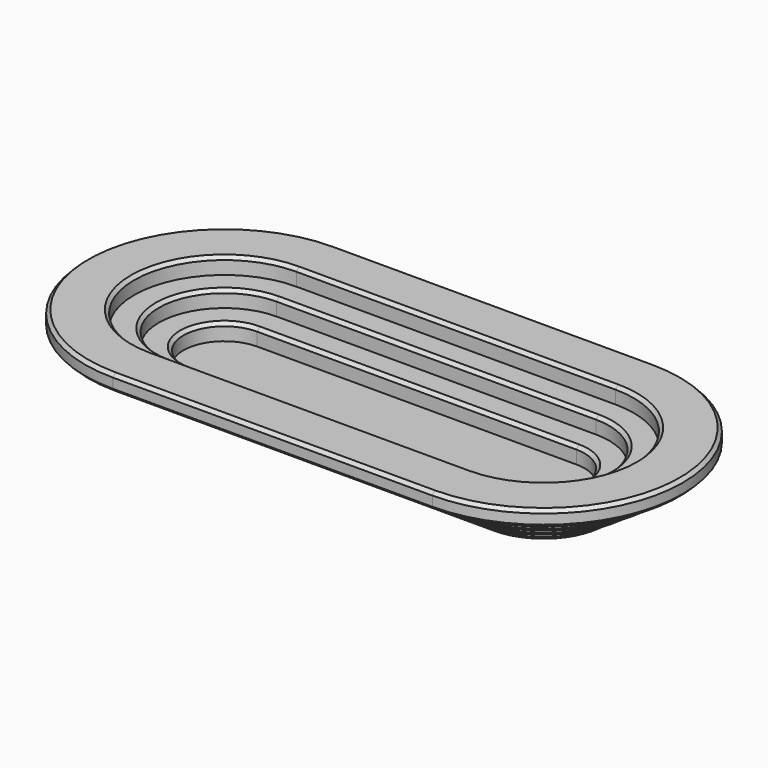
from build123d import *

# Parameters (mm, degrees)
F1_DEPTH  = 10
F3_DEPTH  = 10
F5_DEPTH  = 10
F7_DEPTH  = 10
F8_SIZE   = 2
F8_2_SIZE = 2
F8_3_SIZE = 2
F8_4_SIZE = 2


with BuildPart() as f1:
    # F0 (on Top) → F1 (new body)
    with BuildSketch(Plane.XY):
        with BuildLine():
            Line((97.5, 40), (-97.5, 40))
            ThreePointArc((-97.5, 40), (-137.5, 0), (-97.5, -40))
            Line((-97.5, -40), (97.5, -40))
            ThreePointArc((97.5, -40), (137.5, 0), (97.5, 40))
        make_face()
    extrude(amount=F1_DEPTH)

    # F8#4
    f8_4_edges = [f1.edges().sort_by_distance(p)[0] for p in [
        (0, 40, 0),
    ]]
    chamfer(f8_4_edges, length=F8_4_SIZE)


with BuildPart() as f3:
    # F2 (on face) → F3 (new body)
    with BuildSketch(Plane.XY.offset(10)):
        with BuildLine():
            ThreePointArc((-97.5, 55), (-152.5, 0), (-97.5, -55))
            Line((-97.5, -55), (97.5, -55))
            ThreePointArc((97.5, -55), (152.5, 0), (97.5, 55))
            Line((97.5, 55), (-97.5, 55))
        make_face()
        with BuildLine():
            ThreePointArc((-97.5, -40), (-137.5, 0), (-97.5, 40))
            Line((-97.5, 40), (97.5, 40))
            ThreePointArc((97.5, 40), (137.5, 0), (97.5, -40))
            Line((97.5, -40), (-97.5, -40))
        make_face(mode=Mode.SUBTRACT)
        with BuildLine():
            Line((97.5, 40), (-97.5, 40))
            ThreePointArc((-97.5, 40), (-137.5, 0), (-97.5, -40))
            Line((-97.5, -40), (97.5, -40))
            ThreePointArc((97.5, -40), (137.5, 0), (97.5, 40))
        make_face()
        with BuildLine():
            Line((97.5, -25), (-97.5, -25))
            ThreePointArc((-97.5, -25), (-122.5, 0), (-97.5, 25))
            Line((-97.5, 25), (97.5, 25))
            ThreePointArc((97.5, 25), (122.5, 0), (97.5, -25))
        make_face(mode=Mode.SUBTRACT)
    extrude(amount=F3_DEPTH)

    # F8
    f8_edges = [f3.edges().sort_by_distance(p)[0] for p in [
        (0, -25, 20),
        (0, 55, 10),
    ]]
    chamfer(f8_edges, length=F8_SIZE)


with BuildPart() as f5:
    # F4 (on face) → F5 (new body)
    with BuildSketch(Plane.XY.offset(20)):
        with BuildLine():
            Line((97.5, 70), (-97.5, 70))
            ThreePointArc((-97.5, 70), (-167.5, 0), (-97.5, -70))
            Line((-97.5, -70), (97.5, -70))
            ThreePointArc((97.5, -70), (167.5, 0), (97.5, 70))
        make_face()
        with BuildLine():
            ThreePointArc((-97.5, -55), (-152.5, 0), (-97.5, 55))
            Line((-97.5, 55), (97.5, 55))
            ThreePointArc((97.5, 55), (152.5, 0), (97.5, -55))
            Line((97.5, -55), (-97.5, -55))
        make_face(mode=Mode.SUBTRACT)
        with BuildLine():
            Line((97.5, 55), (-97.5, 55))
            ThreePointArc((-97.5, 55), (-152.5, 0), (-97.5, -55))
            Line((-97.5, -55), (97.5, -55))
            ThreePointArc((97.5, -55), (152.5, 0), (97.5, 55))
        make_face()
        with BuildLine():
            ThreePointArc((-97.5, -40), (-137.5, 0), (-97.5, 40))
            Line((-97.5, 40), (97.5, 40))
            ThreePointArc((97.5, 40), (137.5, 0), (97.5, -40))
            Line((97.5, -40), (-97.5, -40))
        make_face(mode=Mode.SUBTRACT)
    extrude(amount=F5_DEPTH)

    # F8#2
    f8_2_edges = [f5.edges().sort_by_distance(p)[0] for p in [
        (0, -40, 30),
        (0, 70, 20),
    ]]
    chamfer(f8_2_edges, length=F8_2_SIZE)


with BuildPart() as f7:
    # F6 (on face) → F7 (new body)
    with BuildSketch(Plane.XY.offset(30)):
        with BuildLine():
            ThreePointArc((-97.5, 85), (-182.5, 0), (-97.5, -85))
            Line((-97.5, -85), (97.5, -85))
            ThreePointArc((97.5, -85), (182.5, 0), (97.5, 85))
            Line((97.5, 85), (-97.5, 85))
        make_face()
        with BuildLine():
            Line((97.5, -70), (-97.5, -70))
            ThreePointArc((-97.5, -70), (-167.5, 0), (-97.5, 70))
            Line((-97.5, 70), (97.5, 70))
            ThreePointArc((97.5, 70), (167.5, 0), (97.5, -70))
        make_face(mode=Mode.SUBTRACT)
        with BuildLine():
            ThreePointArc((-97.5, 70), (-167.5, 0), (-97.5, -70))
            Line((-97.5, -70), (97.5, -70))
            ThreePointArc((97.5, -70), (167.5, 0), (97.5, 70))
            Line((97.5, 70), (-97.5, 70))
        make_face()
        with BuildLine():
            ThreePointArc((97.5, 55), (152.5, 0), (97.5, -55))
            Line((97.5, -55), (-97.5, -55))
            ThreePointArc((-97.5, -55), (-152.5, 0), (-97.5, 55))
            Line((-97.5, 55), (97.5, 55))
        make_face(mode=Mode.SUBTRACT)
    extrude(amount=F7_DEPTH)

    # F8#3
    f8_3_edges = [f7.edges().sort_by_distance(p)[0] for p in [
        (0, -55, 40),
        (0, 85, 40),
        (-182.5, 0, 30),
    ]]
    chamfer(f8_3_edges, length=F8_3_SIZE)


solid = Compound([f1.part, f3.part, f5.part, f7.part])
